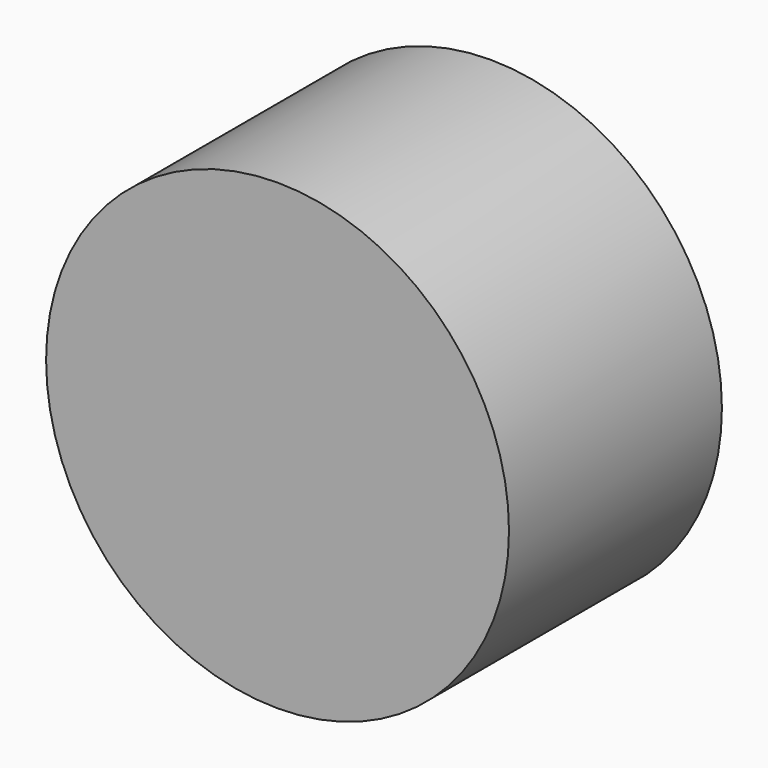
from build123d import *

# Parameters (mm, degrees)
CYLINDER003_R             = 3.5
CYLINDER003_DEPTH         = 10
CYLINDER002_R             = 10.5
CYLINDER002_DEPTH         = 5
CUT005007_PLACEMENT_ANGLE = 90
SKETCH005_R               = 15
EXTRUDE003002_DEPTH       = 17.25


with BuildPart() as cylinder003:
    # Cylinder003 → Cylinder003 (new body)
    with BuildSketch(Plane.XY.offset(-3)):
        Circle(CYLINDER003_R)
    extrude(amount=CYLINDER003_DEPTH)


with BuildPart() as obj1:
    # Cylinder002 → Cylinder002 (new body)
    with BuildSketch(Plane.XY):
        Circle(CYLINDER002_R)
    extrude(amount=CYLINDER002_DEPTH)

    # Cut005007: cut Cylinder003
    add(cylinder003.part, mode=Mode.SUBTRACT)


with BuildPart() as obj1_1:
    # Cut005007 placement: moved
    add(obj1.part.moved(Location((89, 0.5, 10.4))).rotate(Axis((89, 0.5, 10.4), (1, 0, 0)), CUT005007_PLACEMENT_ANGLE))


with BuildPart() as cut005008:
    # Sketch005 → Extrude003002 (new body)
    with BuildSketch(Plane.XZ):
        with Locations((89, 10.4)):
            Circle(SKETCH005_R)
    extrude(amount=EXTRUDE003002_DEPTH)

    # Cut005008: cut obj1
    add(obj1_1.part, mode=Mode.SUBTRACT)


solid = cut005008.part
